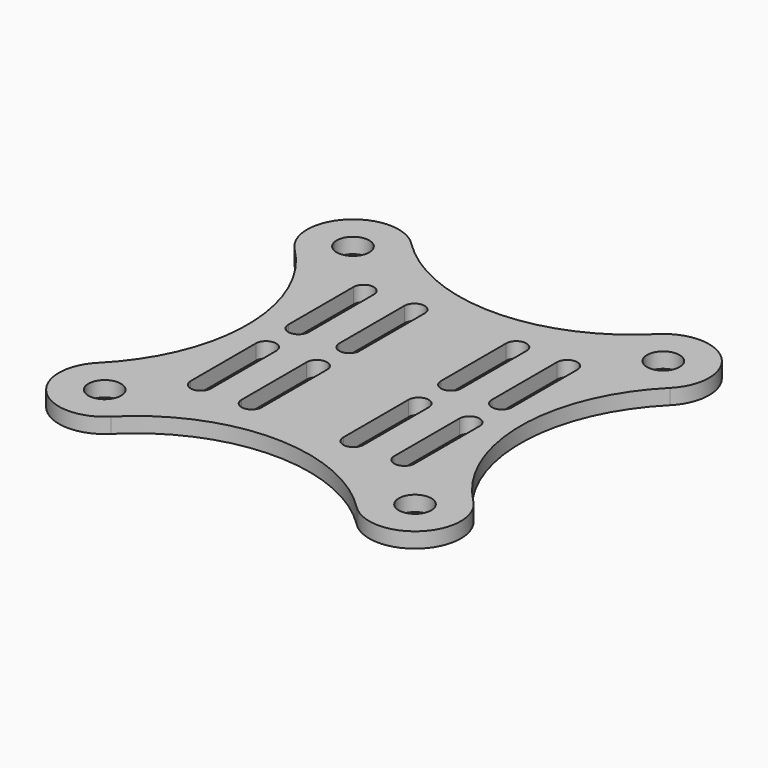
from build123d import *

# Parameters (mm, degrees)
F0_R     = 1.6
F1_DEPTH = 1.5
F3_DEPTH = 1.501


with BuildPart() as f1:
    # F0 (on Top) → F1 (new body)
    with BuildSketch(Plane.XY):
        with BuildLine():
            ThreePointArc((12.068019, 18.431981), (0, 13.433243), (-12.068019, 18.431981))
            ThreePointArc((-12.068019, 18.431981), (-18.431981, 18.431981), (-18.431981, 12.068019))
            ThreePointArc((-18.431981, 12.068019), (-13.433243, 0), (-18.431981, -12.068019))
            ThreePointArc((-18.431981, -12.068019), (-18.431981, -18.431981), (-12.068019, -18.431981))
            ThreePointArc((-12.068019, -18.431981), (0, -13.433243), (12.068019, -18.431981))
            ThreePointArc((12.068019, -18.431981), (18.431981, -18.431981), (18.431981, -12.068019))
            ThreePointArc((18.431981, -12.068019), (13.433243, 0), (18.431981, 12.068019))
            ThreePointArc((18.431981, 12.068019), (18.431981, 18.431981), (12.068019, 18.431981))
        make_face()
        with Locations((-15.25, -15.25)):
            Circle(F0_R, mode=Mode.SUBTRACT)
        with Locations((15.25, -15.25)):
            Circle(F0_R, mode=Mode.SUBTRACT)
        with Locations((-15.25, 15.25)):
            Circle(F0_R, mode=Mode.SUBTRACT)
        with Locations((15.25, 15.25)):
            Circle(F0_R, mode=Mode.SUBTRACT)
    extrude(amount=F1_DEPTH)

    # F2 (on face) → F3 (cut, through all)
    with BuildSketch(Plane.XY.offset(1.5)):
        with BuildLine():
            Line((-4, 2), (-4, 10))
            ThreePointArc((-4, 10), (-5, 11), (-6, 10))
            Line((-6, 10), (-6, 2))
            ThreePointArc((-6, 2), (-5, 1), (-4, 2))
        make_face()
        with BuildLine():
            ThreePointArc((6, 10), (5, 11), (4, 10))
            Line((4, 10), (4, 2))
            ThreePointArc((4, 2), (5, 1), (6, 2))
            Line((6, 2), (6, 10))
        make_face()
        with BuildLine():
            Line((-4, -10), (-4, -2))
            ThreePointArc((-4, -2), (-5, -1), (-6, -2))
            Line((-6, -2), (-6, -10))
            ThreePointArc((-6, -10), (-5, -11), (-4, -10))
        make_face()
        with BuildLine():
            ThreePointArc((6, -2), (5, -1), (4, -2))
            Line((4, -2), (4, -10))
            ThreePointArc((4, -10), (5, -11), (6, -10))
            Line((6, -10), (6, -2))
        make_face()
        with BuildLine():
            Line((-9, 2), (-9, 10))
            ThreePointArc((-9, 10), (-10, 11), (-11, 10))
            Line((-11, 10), (-11, 2))
            ThreePointArc((-11, 2), (-10, 1), (-9, 2))
        make_face()
        with BuildLine():
            Line((-9, -10), (-9, -2))
            ThreePointArc((-9, -2), (-10, -1), (-11, -2))
            Line((-11, -2), (-11, -10))
            ThreePointArc((-11, -10), (-10, -11), (-9, -10))
        make_face()
        with BuildLine():
            ThreePointArc((11, -2), (10, -1), (9, -2))
            Line((9, -2), (9, -10))
            ThreePointArc((9, -10), (10, -11), (11, -10))
            Line((11, -10), (11, -2))
        make_face()
        with BuildLine():
            Line((9, 10), (9, 2))
            ThreePointArc((9, 2), (10, 1), (11, 2))
            Line((11, 2), (11, 10))
            ThreePointArc((11, 10), (10, 11), (9, 10))
        make_face()
    extrude(amount=-F3_DEPTH, mode=Mode.SUBTRACT)


solid = f1.part
